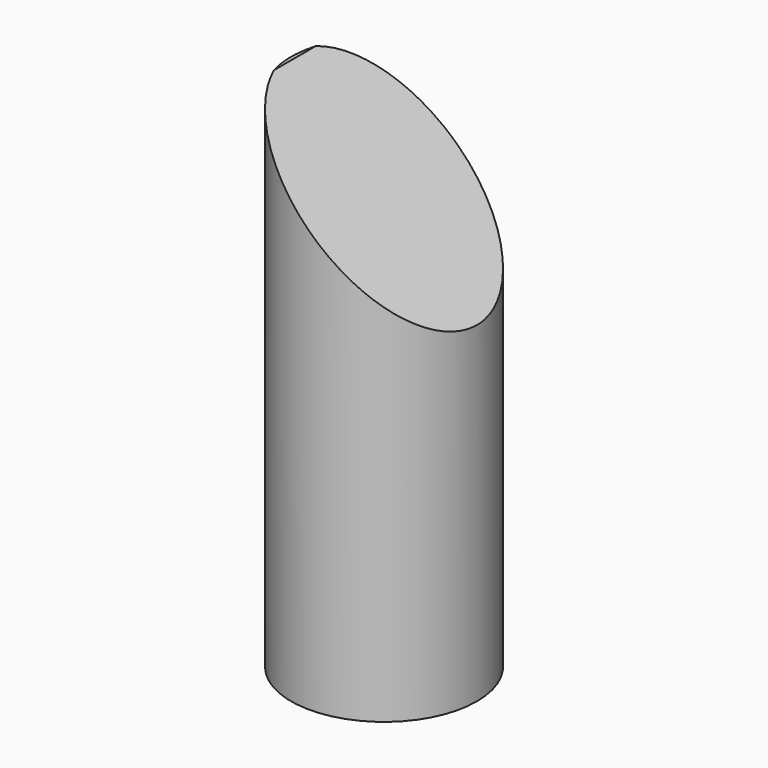
from build123d import *

# Parameters (mm, degrees)
F0_R          = 27.5
F1_DEPTH      = 150
F3_DEPTH      = 27.5
F3_DEPTH_BACK = 27.5


with BuildPart() as f1:
    # F0 (on Top) → F1 (new body)
    with BuildSketch(Plane.XY):
        Circle(F0_R)
    extrude(amount=F1_DEPTH)


with BuildPart() as f3:
    # F2 (on Front) → F3 (new body, two sides)
    with BuildSketch(Plane.XZ) as f3_sk:
        Polygon((27.5, 153), (-29.5, 153), (27.5, 98), align=None)
    extrude(amount=F3_DEPTH)
    extrude(f3_sk.sketch, amount=-F3_DEPTH_BACK)


with BuildPart() as f1_1:
    add(f1.part)

    # F4: cut F3
    add(f3.part, mode=Mode.SUBTRACT)


solid = f1_1.part
